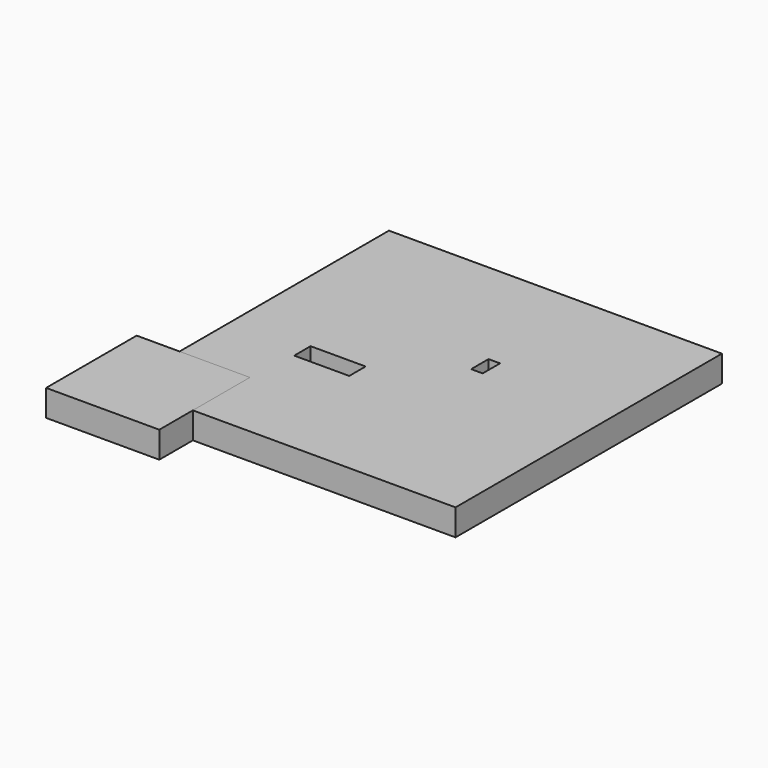
from build123d import *

# Parameters (mm, degrees)
SKETCH_W     = 40
SKETCH_H     = 40
SKETCH_W_2   = 1.383169
SKETCH_H_2   = 2.612657
SKETCH_W_3   = 6.608488
SKETCH_H_3   = 2.458971
PAD_DEPTH    = 3.175
SKETCH001_W  = 13.600899
SKETCH001_H  = 13.600899
PAD001_DEPTH = 3.175


with BuildPart() as body:
    # Sketch → Pad (new body)
    with BuildSketch(Plane.XY):
        Rectangle(SKETCH_W, SKETCH_H)
        with Locations((4.292962, 4.14897)):
            Rectangle(SKETCH_W_2, SKETCH_H_2, mode=Mode.SUBTRACT)
        with Locations((-7.771367, -4.150059)):
            Rectangle(SKETCH_W_3, SKETCH_H_3, mode=Mode.SUBTRACT)
    extrude(amount=PAD_DEPTH)


with BuildPart() as body001:
    # Sketch001 → Pad001 (new body)
    with BuildSketch(Plane.XY):
        with Locations((-18.353994, -18.237635)):
            Rectangle(SKETCH001_W, SKETCH001_H)
    extrude(amount=PAD001_DEPTH)


solid = Compound([body.part, body001.part])
